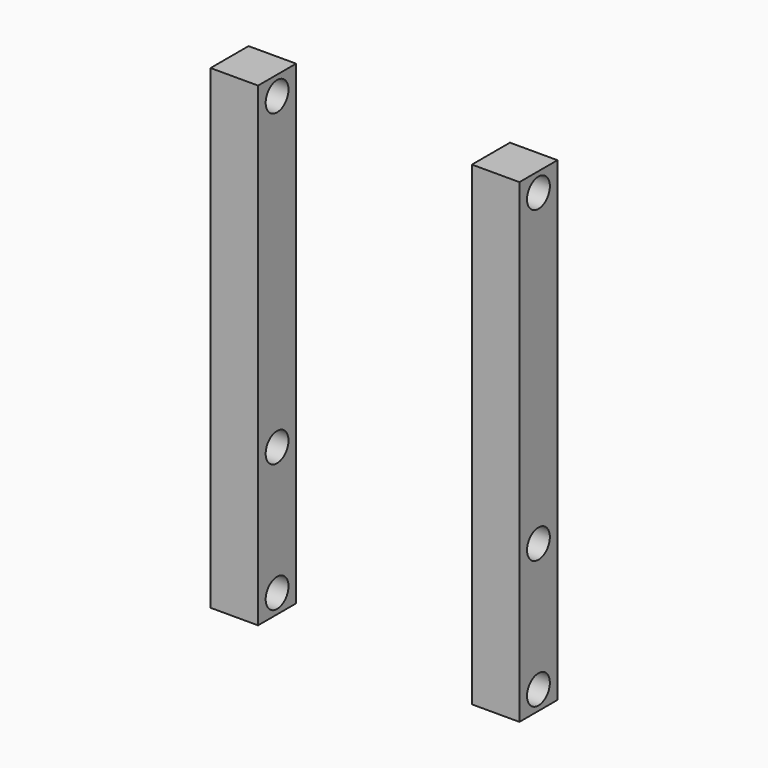
from build123d import *

# Parameters (mm, degrees)
F0_W      = 100
F0_H      = 100
F1_DEPTH  = 1000
F2_R      = 30
F3_DEPTH  = 100
F4_R      = 30
F5_DEPTH  = 100
F6_R      = 30
F7_DEPTH  = 100
F8_R      = 30
F9_DEPTH  = 100
F10_R     = 30
F11_DEPTH = 100
F12_R     = 30
F13_DEPTH = 100


with BuildPart() as f1:
    # F0 (on Top) → F1 (new body)
    with BuildSketch(Plane.XY):
        with Locations((-275, 0)):
            Rectangle(F0_W, F0_H)
        with Locations((275, 0)):
            Rectangle(F0_W, F0_H)
    extrude(amount=F1_DEPTH)

    # F2 (on face) → F3 (cut)
    with BuildSketch(Plane(origin=(-325, 0, 0), x_dir=(0, -1, 0), z_dir=(-1, 0, 0))):
        with Locations((0, 960)):
            Circle(F2_R)
    extrude(amount=-F3_DEPTH, mode=Mode.SUBTRACT)

    # F4 (on face) → F5 (cut)
    with BuildSketch(Plane.YZ.offset(325)):
        with Locations((0, 40)):
            Circle(F4_R)
    extrude(amount=-F5_DEPTH, mode=Mode.SUBTRACT)

    # F6 (on face) → F7 (cut)
    with BuildSketch(Plane.YZ.offset(325)):
        with Locations((0, 960)):
            Circle(F6_R)
    extrude(amount=-F7_DEPTH, mode=Mode.SUBTRACT)

    # F8 (on face) → F9 (cut)
    with BuildSketch(Plane(origin=(-325, 0, 0), x_dir=(0, -1, 0), z_dir=(-1, 0, 0))):
        with Locations((0, 40)):
            Circle(F8_R)
    extrude(amount=-F9_DEPTH, mode=Mode.SUBTRACT)

    # F10 (on face) → F11 (cut)
    with BuildSketch(Plane.YZ.offset(325)):
        with Locations((0, 310)):
            Circle(F10_R)
    extrude(amount=-F11_DEPTH, mode=Mode.SUBTRACT)

    # F12 (on face) → F13 (cut)
    with BuildSketch(Plane(origin=(-325, 0, 0), x_dir=(0, -1, 0), z_dir=(-1, 0, 0))):
        with Locations((0, 310)):
            Circle(F12_R)
    extrude(amount=-F13_DEPTH, mode=Mode.SUBTRACT)


solid = f1.part
